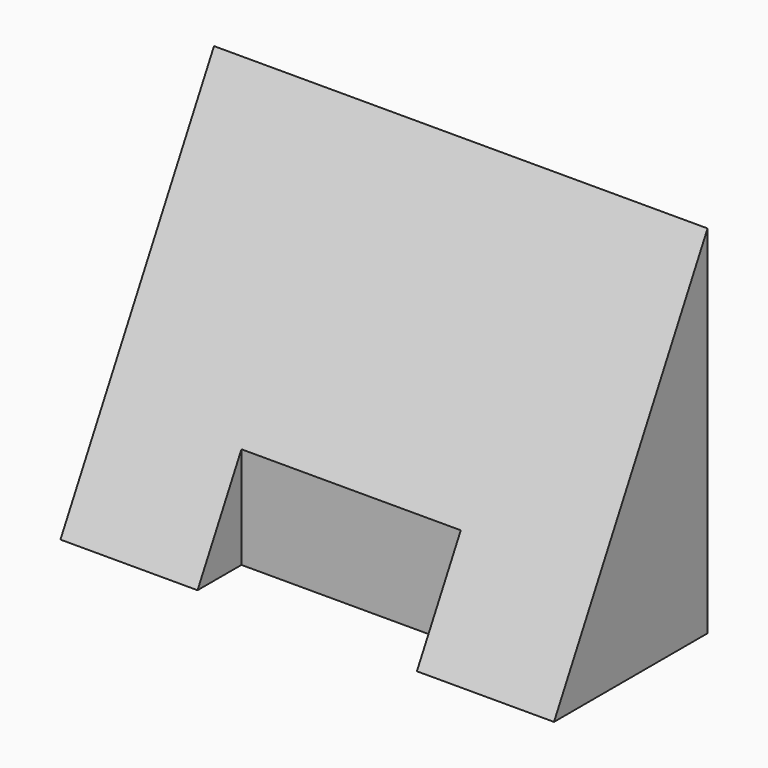
from build123d import *

# Parameters (mm, degrees)
F0_W     = 18
F0_H     = 7
F1_DEPTH = 13
F2_W     = 8
F2_H     = 2
F3_DEPTH = 13.001
F5_DEPTH = 18.001


with BuildPart() as f1:
    # F0 (on Top) → F1 (new body)
    with BuildSketch(Plane.XY):
        with Locations((9, -3.5)):
            Rectangle(F0_W, F0_H)
    extrude(amount=F1_DEPTH)

    # F2 (on face) → F3 (cut, through all)
    with BuildSketch(Plane.XY.offset(13)):
        with Locations((9, -6)):
            Rectangle(F2_W, F2_H)
    extrude(amount=-F3_DEPTH, mode=Mode.SUBTRACT)

    # F4 (on face) → F5 (cut, through all)
    with BuildSketch(Plane.YZ.offset(18)):
        Polygon((-7, 0), (0, 13), (-7, 13), align=None)
    extrude(amount=-F5_DEPTH, mode=Mode.SUBTRACT)


solid = f1.part
